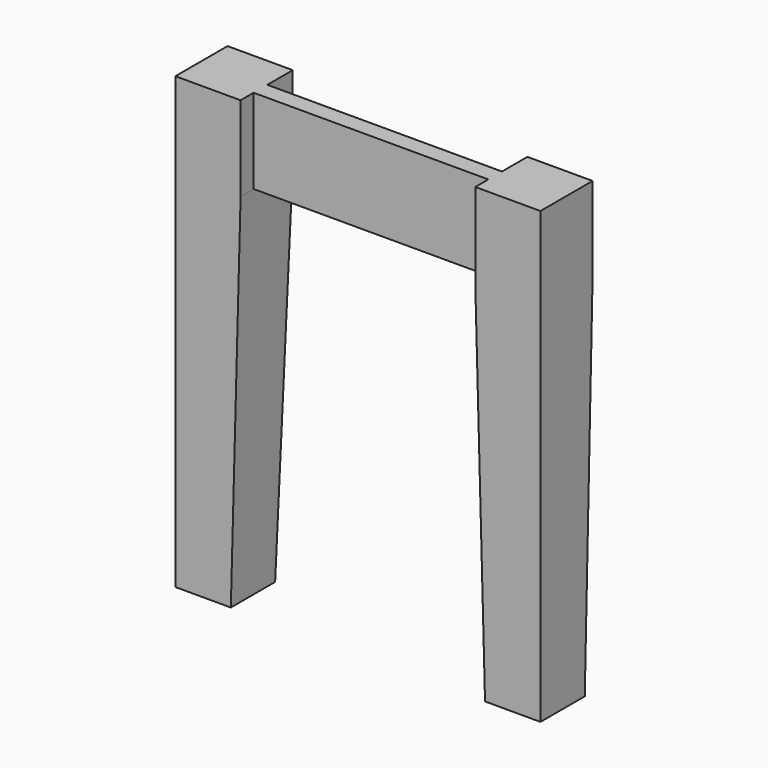
from build123d import *

# Parameters (mm, degrees)
F1_DEPTH  = 63.5
F3_DEPTH  = 63.5
F4_W      = 228.6
F4_H      = 16.6908878535
F6_DEPTH  = 82.55
F12_DEPTH = 63.5


with BuildPart() as f1:
    # F0 (on Front) → F1 (new body)
    with BuildSketch(Plane.XZ):
        Polygon((-31.75, -219.075), (22.225, -219.075), (31.75, 136.525), (31.75, 219.075), (-31.75, 219.075), align=None)
    extrude(amount=F1_DEPTH)

    # F2 (on face) → F3 (cut)
    with BuildSketch(Plane(origin=(-31.75, 0, 0), x_dir=(0, -1, 0), z_dir=(-1, 0, 0))):
        Polygon((9.525, -219.075), (0, 136.525), (0, -219.075), align=None)
    extrude(amount=-F3_DEPTH, mode=Mode.SUBTRACT)

    # F5: F1 across plane


with BuildPart() as f1_1:
    add(f1.part)
    add(f1.part.mirror(Plane.YZ))

    # F4 (on face) → F6 (join)
    with BuildSketch(Plane.XY.offset(219.075)):
        with Locations((146.05, -39.2795560732)):
            Rectangle(F4_W, F4_H)
    extrude(amount=-F6_DEPTH)

    # F11 (on face) → F12 (cut)
    with BuildSketch(Plane.XZ.offset(63.5)):
        Polygon((31.75, -219.075), (31.75, 136.525), (22.225, -219.075), align=None)
    extrude(amount=-F12_DEPTH, mode=Mode.SUBTRACT)

    # F13: F1 across plane


with BuildPart() as f1_2:
    add(f1_1.part)
    add(f1_1.part.mirror(Plane(origin=(146.05, -47.625, 219.075), x_dir=(0, 1, 0), z_dir=(1, 0, 0))))


solid = f1_2.part
